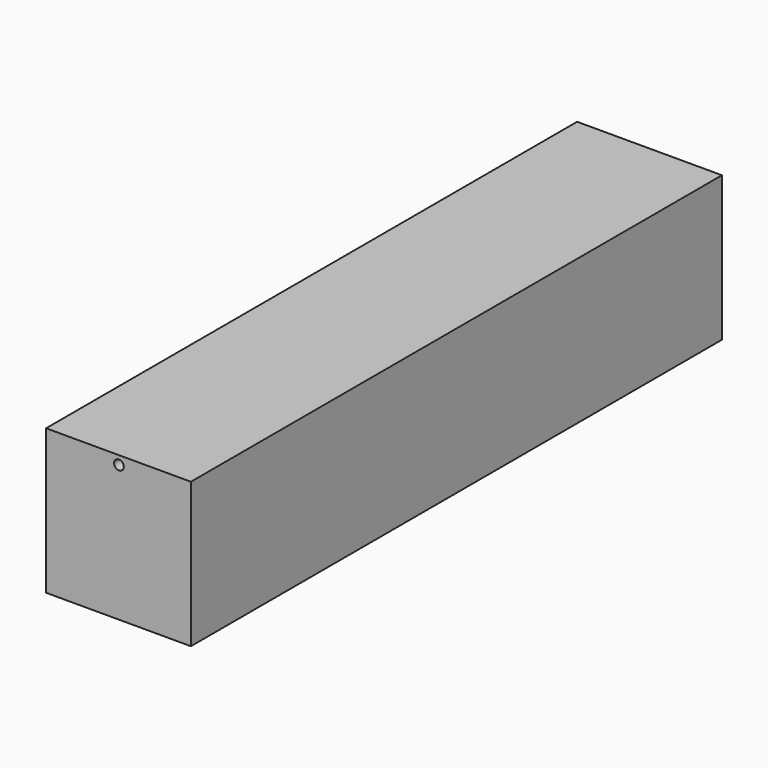
from build123d import *

# Parameters (mm, degrees)
F0_W     = 60
F0_H     = 60
F1_DEPTH = 25
F2_DEPTH = 250
F4_D     = 4


with BuildPart() as f1:
    # F0 (on Front) → F1 (new body)
    with BuildSketch(Plane.XZ):
        with Locations((1.1512227356, -11.8655072413)):
            Rectangle(F0_W, F0_H)
    extrude(amount=F1_DEPTH)

    # F2 (add): a face of the model
    f2_faces = [f1.faces().sort_by_distance(p)[0] for p in [
        (1.1512227356, -25, -11.8655072413),
    ]]
    extrude(f2_faces, amount=F2_DEPTH)

    # F4 (through all)
    with Locations(Plane(origin=(0, 0, 0), x_dir=(1, 0, 0), z_dir=(0, 1, 0))):
        with Locations((1.3407834521, -14.5503044262)):
            Hole(F4_D / 2)


solid = f1.part
